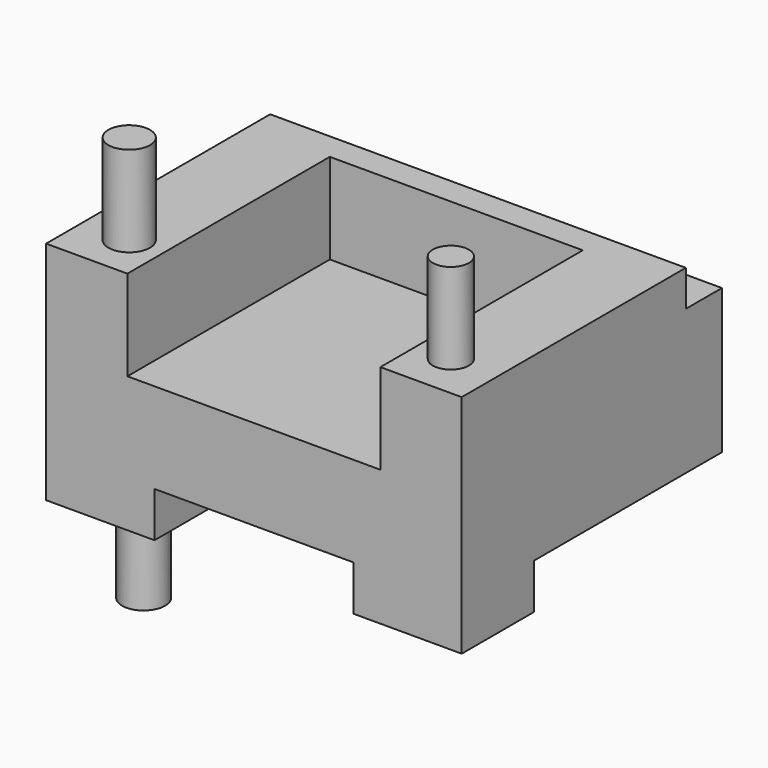
from build123d import *

# Parameters (mm, degrees)
F0_W      = 23
F0_H      = 18
F1_DEPTH  = 10
F2_W      = 6
F2_H      = 6
F2_H_2    = 5
F3_DEPTH  = 2.5
F4_R      = 1.19
F5_DEPTH  = 5
F6_W      = 14
F6_H      = 14
F7_DEPTH  = 5
F8_R      = 1.15
F8_R_2    = 1
F9_DEPTH  = 5
F10_W     = 23
F10_H     = 2.5
F11_DEPTH = 2


with BuildPart() as f1:
    # F0 (on Top) → F1 (new body)
    with BuildSketch(Plane.XY):
        Rectangle(F0_W, F0_H)
    extrude(amount=F1_DEPTH)

    # F2 (on face) → F3 (join)
    with BuildSketch(Plane(origin=(0, 0, 0), x_dir=(1, 0, 0), z_dir=(0, 0, -1))):
        with Locations((-8.5, 6)):
            Rectangle(F2_W, F2_H)
        with Locations((8.5, 6.5)):
            Rectangle(F2_W, F2_H_2)
    extrude(amount=F3_DEPTH)

    # F4 (on face) → F5 (join)
    with BuildSketch(Plane(origin=(0, 0, -2.5), x_dir=(1, 0, 0), z_dir=(0, 0, -1))):
        with Locations((-8.5, 6)):
            Circle(F4_R)
    extrude(amount=F5_DEPTH)

    # F6 (on face) → F7 (cut)
    with BuildSketch(Plane.XY.offset(10)):
        with Locations((0, -2)):
            Rectangle(F6_W, F6_H)
    extrude(amount=-F7_DEPTH, mode=Mode.SUBTRACT)

    # F8 (on face) → F9 (join)
    with BuildSketch(Plane.XY.offset(10)):
        with Locations((-8.9, -6.5)):
            Circle(F8_R)
        with Locations((8.9, -6.5)):
            Circle(F8_R_2)
    extrude(amount=F9_DEPTH)

    # F10 (on face) → F11 (cut)
    with BuildSketch(Plane.XY.offset(10)):
        with Locations((0, 7.75)):
            Rectangle(F10_W, F10_H)
    extrude(amount=-F11_DEPTH, mode=Mode.SUBTRACT)


solid = f1.part
